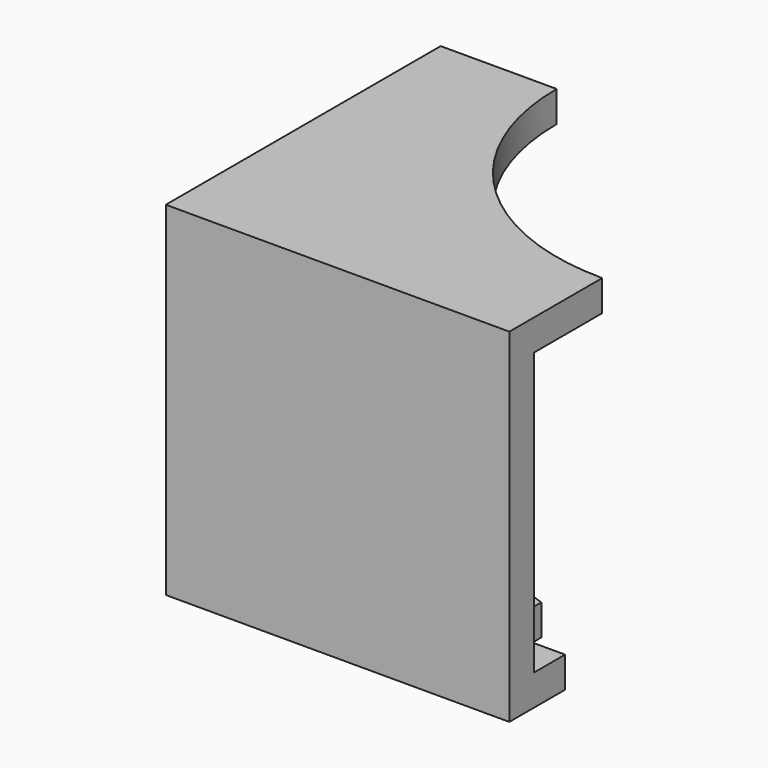
from build123d import *

# Parameters (mm, degrees)
F0_W     = 22.2
F0_H     = 22.2
F1_DEPTH = 22.2
F2_T     = -2
F4_DEPTH = 22.201
F6_DEPTH = 2.5


with BuildPart() as f1:
    # F0 (on Front) → F1 (new body)
    with BuildSketch(Plane.XZ):
        with Locations((-11.1, 11.1)):
            Rectangle(F0_W, F0_H)
    extrude(amount=F1_DEPTH)

    # F2
    f2_openings = [f1.faces().sort_by_distance(p)[0] for p in [
        (0, -11.1, 11.1),
        (-11.1, 0, 11.1),
    ]]
    offset(amount=F2_T, openings=f2_openings)

    # F3 (on face) → F4 (cut, through all)
    with BuildSketch(Plane.XY.offset(22.2)):
        with BuildLine():
            Line((0, 0), (-14.7, 0))
            ThreePointArc((-14.7, 0), (-10.39447, -10.39447), (0, -14.7))
            Line((0, -14.7), (0, 0))
        make_face()
    extrude(amount=-F4_DEPTH, mode=Mode.SUBTRACT)

    # F5 (on face) → F6 (cut)
    with BuildSketch(Plane(origin=(0, 0, 0), x_dir=(1, 0, 0), z_dir=(0, 0, -1))):
        with BuildLine():
            Line((-17.7, 4.5), (-17.7, 0))
            Line((-17.7, 0), (-14.7, 0))
            ThreePointArc((-14.7, 0), (-14.522499, 2.277501), (-13.994285, 4.5))
            Line((-13.994285, 4.5), (-17.7, 4.5))
        make_face()
        with BuildLine():
            Line((0, 14.7), (0, 17.7))
            Line((0, 17.7), (-4.5, 17.7))
            Line((-4.5, 17.7), (-4.5, 13.994285))
            ThreePointArc((-4.5, 13.994285), (-2.277501, 14.522499), (0, 14.7))
        make_face()
    extrude(amount=-F6_DEPTH, mode=Mode.SUBTRACT)


solid = f1.part
